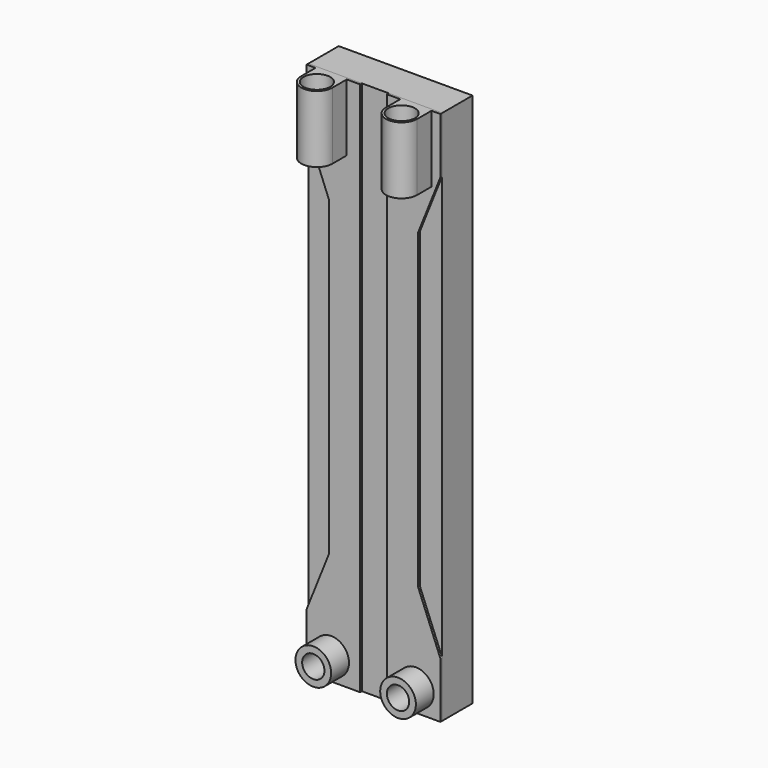
from build123d import *

# Parameters (mm, degrees)
F0_W     = 6
F0_H     = 24
F1_DEPTH = 1.7
F3_DEPTH = 0.1
F4_R     = 0.8
F4_R_2   = 0.5
F5_DEPTH = 1
F6_R     = 0.8
F6_R_2   = 0.5
F7_DEPTH = 1
F8_R     = 0.6
F9_DEPTH = 3


with BuildPart() as f1:
    # F0 (on Front) → F1 (new body)
    with BuildSketch(Plane.XZ):
        with Locations((0, 7)):
            Rectangle(F0_W, F0_H)
    extrude(amount=F1_DEPTH)


with BuildPart() as f3:
    # F2 (on face) → F3 (new body)
    with BuildSketch(Plane.XZ.offset(1.7)):
        Polygon((-3, -2.5), (-3, -5), (-0.6, -5), (-0.6, 7), (-0.6, 19), (-3, 19), (-3, 16.5), (-2, 14), (-2, 7), (-2, 0), align=None)
        Polygon((0.6, 7), (0.6, -5), (3, -5), (3, -2.5), (2, 0), (2, 7), (2, 14), (3, 16.5), (3, 19), (0.6, 19), align=None)
    extrude(amount=F3_DEPTH)

    # F4 (on face) → F5 (join)
    with BuildSketch(Plane.XZ.offset(1.8)):
        with Locations((-1.9, -4)):
            Circle(F4_R)
        with Locations((-1.9, -4)):
            Circle(F4_R_2, mode=Mode.SUBTRACT)
    extrude(amount=F5_DEPTH)

    # F6 (on face) → F7 (join)
    with BuildSketch(Plane.XZ.offset(1.8)):
        with Locations((1.9, -4)):
            Circle(F6_R)
        with Locations((1.9, -4)):
            Circle(F6_R_2, mode=Mode.SUBTRACT)
    extrude(amount=F7_DEPTH)

    # F8 (on face) → F9 (join)
    with BuildSketch(Plane.XY.offset(19)):
        with BuildLine():
            Line((-2.6, -1.8), (-2.6, -2.6))
            ThreePointArc((-2.6, -2.6), (-1.9, -3.3), (-1.2, -2.6))
            Line((-1.2, -2.6), (-1.2, -1.8))
            Line((-1.2, -1.8), (-2.6, -1.8))
        make_face()
        with Locations((-1.9, -2.6)):
            Circle(F8_R, mode=Mode.SUBTRACT)
        with BuildLine():
            Line((1.2, -1.8), (1.2, -2.6))
            ThreePointArc((1.2, -2.6), (1.9, -3.3), (2.6, -2.6))
            Line((2.6, -2.6), (2.6, -1.8))
            Line((2.6, -1.8), (1.2, -1.8))
        make_face()
        with Locations((1.9, -2.6)):
            Circle(F8_R, mode=Mode.SUBTRACT)
    extrude(amount=-F9_DEPTH)


solid = Compound([f1.part, f3.part])
